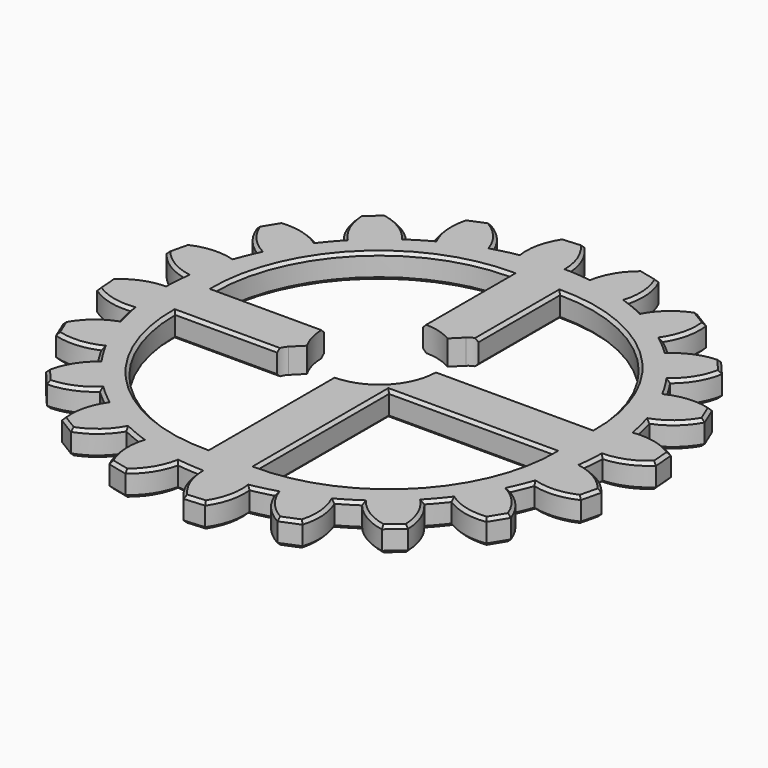
from build123d import *

# Parameters (mm, degrees)
F2_DEPTH  = 6.35
F3_COUNT  = 20
F5_DEPTH  = 6.351
F6_R      = 3.175
F7_DEPTH  = 19.05
F8_SIZE   = 0.762
F9_R      = 14.605
F10_DEPTH = 6.3510001
F12_DEPTH = 6.3510001


with BuildPart() as f2:
    # F1 (on Top) → F2 (new body)
    with BuildSketch(Plane.XY):
        with BuildLine():
            ThreePointArc((-10.6371117217, 56.151352203), (4.4839373208, -56.9738256228), (1.7221444819, 57.1240467613))
            ThreePointArc((1.7221444819, 57.1240467613), (0.4322382841, 62.5853880687), (-2.6771995949, 67.2567372263))
            Line((-2.6771995949, 67.2567372263), (-7.877032883, 66.8475014713))
            ThreePointArc((-7.877032883, 66.8475014713), (-10.2174284154, 61.7472411223), (-10.6371117217, 56.151352203))
        make_face()
    extrude(amount=-F2_DEPTH)

    # F3: F2 ×20 about axis
    f3_axis = Axis((0, 0, 0), (0, 0, 1))


with BuildPart() as f2_1:
    add(f2.part)
    for i in range(1, F3_COUNT):
        add(f2.part.rotate(f3_axis, i * 360 / F3_COUNT))

    # F4 (on face) → F5 (cut, through all)
    with BuildSketch(Plane.XY):
        with BuildLine():
            Line((-48.1697438789, 6.35), (-6.35, 6.35))
            Line((-6.35, 6.35), (-6.35, 48.1697438789))
            ThreePointArc((-6.35, 48.1697438789), (-35.9210244843, 35.9210244843), (-48.1697438789, 6.35))
        make_face()
        with BuildLine():
            Line((-6.35, -6.35), (-48.1697438789, -6.35))
            ThreePointArc((-48.1697438789, -6.35), (-35.9210244843, -35.9210244843), (-6.35, -48.1697438789))
            Line((-6.35, -48.1697438789), (-6.35, -6.35))
        make_face()
        with BuildLine():
            Line((6.35, -6.35), (6.35, -48.1697438789))
            ThreePointArc((6.35, -48.1697438789), (35.9210244843, -35.9210244843), (48.1697438789, -6.35))
            Line((48.1697438789, -6.35), (6.35, -6.35))
        make_face()
        with BuildLine():
            Line((6.35, 6.35), (48.1697438789, 6.35))
            ThreePointArc((48.1697438789, 6.35), (35.9210244843, 35.9210244843), (6.35, 48.1697438789))
            Line((6.35, 48.1697438789), (6.35, 6.35))
        make_face()
    extrude(amount=-F5_DEPTH, mode=Mode.SUBTRACT)

    # F6 (on face) → F7 (cut)
    with BuildSketch(Plane.XY):
        Circle(F6_R)
    extrude(amount=-F7_DEPTH, mode=Mode.SUBTRACT)

    # F8
    f8_edges = [f2_1.edges().sort_by_distance(p)[0] for p in [
        (29.860793, -48.728385, -6.35),
        (28.798299, -55.567757, -6.35),
        (36.43708, -50.886706, -6.35),
        (25.73908, -62.139636, -6.35),
        (43.681524, -51.144493, -6.35),
        (18.928865, -59.65581, -6.35),
        (44.560191, -43.948914, -6.35),
        (13.341403, -55.570941, -6.35),
        (43.457201, -37.115956, -6.35),
        (10.217428, -61.747241, -6.35),
        (50.378579, -37.136456, -6.35),
        (5.277116, -67.052119, -6.35),
        (57.348115, -35.14297, -6.35),
        (-0.432238, -62.585388, -6.35),
        (55.960221, -28.028044, -6.35),
        (-4.483937, -56.973826, -6.35),
        (52.799715, -21.870358, -6.35),
        (-9.363595, -61.882475, -6.35),
        (59.388672, -19.751032, -6.35),
        (-15.701409, -65.401074, -6.35),
        (65.401074, -15.701409, -6.35),
        (-19.751032, -59.388672, -6.35),
        (61.882475, -9.363595, -6.35),
        (-21.870358, -52.799715, -6.35),
        (56.973826, -4.483937, -6.35),
        (-28.028044, -55.960221, -6.35),
        (62.585388, -0.432238, -6.35),
        (-35.14297, -57.348115, -6.35),
        (67.052119, 5.277116, -6.35),
        (-37.136456, -50.378579, -6.35),
        (61.747241, 10.217428, -6.35),
        (-37.115956, -43.457201, -6.35),
        (55.570941, 13.341403, -6.35),
        (-43.948914, -44.560191, -6.35),
        (59.65581, 18.928865, -6.35),
        (-51.144493, -43.681524, -6.35),
        (62.139636, 25.73908, -6.35),
        (-50.886706, -36.43708, -6.35),
        (55.567757, 28.798299, -6.35),
        (-48.728385, -29.860793, -6.35),
        (48.728385, 29.860793, -6.35),
        (-55.567757, -28.798299, -6.35),
        (50.886706, 36.43708, -6.35),
        (-62.139636, -25.73908, -6.35),
        (51.144493, 43.681524, -6.35),
        (-59.65581, -18.928865, -6.35),
        (43.948914, 44.560191, -6.35),
        (-55.570941, -13.341403, -6.35),
        (37.115956, 43.457201, -6.35),
        (-61.747241, -10.217428, -6.35),
        (37.136456, 50.378579, -6.35),
        (-67.052119, -5.277116, -6.35),
        (35.14297, 57.348115, -6.35),
        (-62.585388, 0.432238, -6.35),
        (28.028044, 55.960221, -6.35),
        (-56.973826, 4.483937, -6.35),
        (21.870358, 52.799715, -6.35),
        (-61.882475, 9.363595, -6.35),
        (19.751032, 59.388672, -6.35),
        (-65.401074, 15.701409, -6.35),
        (15.701409, 65.401074, -6.35),
        (-59.388672, 19.751032, -6.35),
        (9.363595, 61.882475, -6.35),
        (-52.799715, 21.870358, -6.35),
        (4.483937, 56.973826, -6.35),
        (-55.960221, 28.028044, -6.35),
        (0.432238, 62.585388, -6.35),
        (-57.348115, 35.14297, -6.35),
        (-5.277116, 67.052119, -6.35),
        (-50.378579, 37.136456, -6.35),
        (-10.217428, 61.747241, -6.35),
        (-43.457201, 37.115956, -6.35),
        (-13.341403, 55.570941, -6.35),
        (-44.560191, 43.948914, -6.35),
        (-18.928865, 59.65581, -6.35),
        (-43.681524, 51.144493, -6.35),
        (-25.73908, 62.139636, -6.35),
        (-36.43708, 50.886706, -6.35),
        (-28.798299, 55.567757, -6.35),
        (-29.860793, 48.728385, -6.35),
        (-6.35, -27.259872, -6.35),
        (-35.921024, -35.921024, -6.35),
        (-27.259872, -6.35, -6.35),
        (27.259872, -6.35, -6.35),
        (35.921024, -35.921024, -6.35),
        (6.35, -27.259872, -6.35),
        (-3.175, 0, -6.35),
        (-27.259872, 6.35, -6.35),
        (-35.921024, 35.921024, -6.35),
        (-6.35, 27.259872, -6.35),
        (6.35, 27.259872, -6.35),
        (35.921024, 35.921024, -6.35),
        (27.259872, 6.35, -6.35),
        (29.860793, -48.728385, 0),
        (28.798299, -55.567757, 0),
        (36.43708, -50.886706, 0),
        (25.73908, -62.139636, 0),
        (43.681524, -51.144493, 0),
        (18.928865, -59.65581, 0),
        (44.560191, -43.948914, 0),
        (13.341403, -55.570941, 0),
        (43.457201, -37.115956, 0),
        (10.217428, -61.747241, 0),
        (50.378579, -37.136456, 0),
        (5.277116, -67.052119, 0),
        (57.348115, -35.14297, 0),
        (-0.432238, -62.585388, 0),
        (55.960221, -28.028044, 0),
        (-4.483937, -56.973826, 0),
        (52.799715, -21.870358, 0),
        (-9.363595, -61.882475, 0),
        (59.388672, -19.751032, 0),
        (-15.701409, -65.401074, 0),
        (65.401074, -15.701409, 0),
        (-19.751032, -59.388672, 0),
        (61.882475, -9.363595, 0),
        (-21.870358, -52.799715, 0),
        (56.973826, -4.483937, 0),
        (-28.028044, -55.960221, 0),
        (62.585388, -0.432238, 0),
        (-35.14297, -57.348115, 0),
        (67.052119, 5.277116, 0),
        (-37.136456, -50.378579, 0),
        (61.747241, 10.217428, 0),
        (-37.115956, -43.457201, 0),
        (55.570941, 13.341403, 0),
        (-43.948914, -44.560191, 0),
        (59.65581, 18.928865, 0),
        (-51.144493, -43.681524, 0),
        (62.139636, 25.73908, 0),
        (-50.886706, -36.43708, 0),
        (55.567757, 28.798299, 0),
        (-48.728385, -29.860793, 0),
        (48.728385, 29.860793, 0),
        (-55.567757, -28.798299, 0),
        (50.886706, 36.43708, 0),
        (-62.139636, -25.73908, 0),
        (51.144493, 43.681524, 0),
        (-59.65581, -18.928865, 0),
        (43.948914, 44.560191, 0),
        (-55.570941, -13.341403, 0),
        (37.115956, 43.457201, 0),
        (-61.747241, -10.217428, 0),
        (37.136456, 50.378579, 0),
        (-67.052119, -5.277116, 0),
        (35.14297, 57.348115, 0),
        (-62.585388, 0.432238, 0),
        (28.028044, 55.960221, 0),
        (-56.973826, 4.483937, 0),
        (21.870358, 52.799715, 0),
        (-61.882475, 9.363595, 0),
        (19.751032, 59.388672, 0),
        (-65.401074, 15.701409, 0),
        (15.701409, 65.401074, 0),
        (-59.388672, 19.751032, 0),
        (9.363595, 61.882475, 0),
        (-52.799715, 21.870358, 0),
        (4.483937, 56.973826, 0),
        (-55.960221, 28.028044, 0),
        (0.432238, 62.585388, 0),
        (-57.348115, 35.14297, 0),
        (-5.277116, 67.052119, 0),
        (-50.378579, 37.136456, 0),
        (-10.217428, 61.747241, 0),
        (-43.457201, 37.115956, 0),
        (-13.341403, 55.570941, 0),
        (-44.560191, 43.948914, 0),
        (-18.928865, 59.65581, 0),
        (-43.681524, 51.144493, 0),
        (-25.73908, 62.139636, 0),
        (-36.43708, 50.886706, 0),
        (-28.798299, 55.567757, 0),
        (-29.860793, 48.728385, 0),
        (-6.35, -27.259872, 0),
        (-35.921024, -35.921024, 0),
        (-27.259872, -6.35, 0),
        (-3.175, 0, 0),
        (27.259872, -6.35, 0),
        (35.921024, -35.921024, 0),
        (6.35, -27.259872, 0),
        (-27.259872, 6.35, 0),
        (-35.921024, 35.921024, 0),
        (-6.35, 27.259872, 0),
        (6.35, 27.259872, 0),
        (35.921024, 35.921024, 0),
        (27.259872, 6.35, 0),
    ]]
    chamfer(f8_edges, length=F8_SIZE)

    # F9 (on face) → F10 (cut, through all)
    with BuildSketch(Plane.XY):
        with Locations((-5.8371664787, 5.8371664787)):
            Circle(F9_R)
    extrude(amount=-F10_DEPTH, mode=Mode.SUBTRACT)

    # F11 (on face) → F12 (cut, through all)
    with BuildSketch(Plane.XY):
        with BuildLine():
            Line((-15.7154482119, -9.4292689271), (9.4292689271, 15.7154482119))
            ThreePointArc((9.4292689271, 15.7154482119), (9.4292689271, 21.1036018845), (4.0411152545, 21.1036018845))
            Line((4.0411152545, 21.1036018845), (-21.1036018845, -4.0411152545))
            ThreePointArc((-21.1036018845, -4.0411152545), (-21.1036018845, -9.4292689271), (-15.7154482119, -9.4292689271))
        make_face()
    extrude(amount=-F12_DEPTH, mode=Mode.SUBTRACT)


solid = f2_1.part
